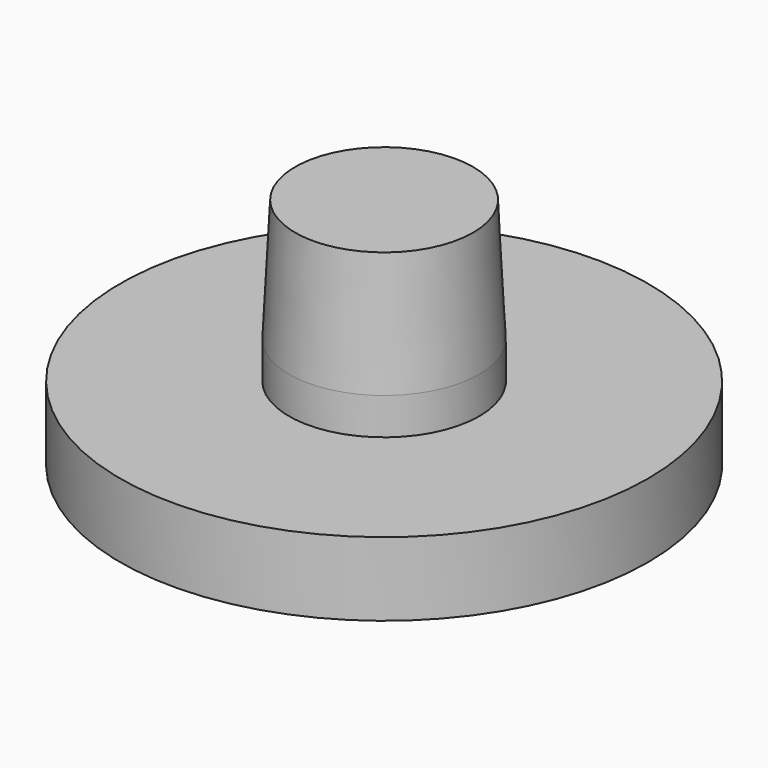
from build123d import *

# Parameters (mm, degrees)
F0_R     = 10.75
F1_DEPTH = 3
F2_R     = 3.875
F3_DEPTH = 6.5
F4_SIZE2 = 5
F4_SIZE  = 0.25


with BuildPart() as f1:
    # F0 (on Top) → F1 (new body)
    with BuildSketch(Plane.XY):
        Circle(F0_R)
    extrude(amount=F1_DEPTH)

    # F2 (on face) → F3 (join)
    with BuildSketch(Plane.XY.offset(3)):
        Circle(F2_R)
    extrude(amount=F3_DEPTH)

    # F4
    f4_edges = [f1.edges().sort_by_distance(p)[0] for p in [
        (-3.875, 0, 9.5),
    ]]
    f4_side = f1.faces().sort_by_distance((0, 0, 9.5))[0]
    chamfer(f4_edges, length=F4_SIZE, length2=F4_SIZE2, reference=f4_side)


solid = f1.part
